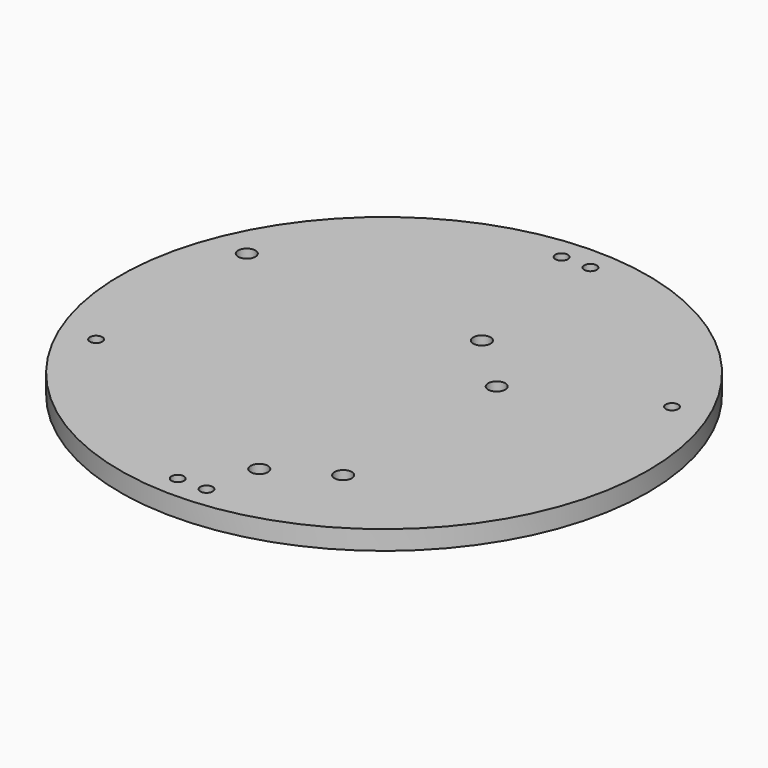
from build123d import *

# Parameters (mm, degrees)
SKETCH_R        = 55
PAD_DEPTH       = 4
SKETCH003_R     = 1.3
POCKET001_DEPTH = 5
SKETCH004_R     = 1.3
POCKET_DEPTH    = 5
SKETCH005_R     = 1.8
POCKET002_DEPTH = 5


with BuildPart() as part:
    # Sketch → Pad (new body)
    with BuildSketch(Plane.XY):
        Circle(SKETCH_R)
    extrude(amount=PAD_DEPTH)

    # Sketch003 → Pocket001 (cut)
    with BuildSketch(Plane.XY.offset(4)):
        with Locations((-44, -20)):
            Circle(SKETCH003_R)
        with Locations((44, 20)):
            Circle(SKETCH003_R)
    extrude(amount=-POCKET001_DEPTH, mode=Mode.SUBTRACT)

    # Sketch004 (on Face3 of Pocket001) → Pocket (cut)
    with BuildSketch(Plane.XY.offset(4)):
        with Locations((3, -50)):
            Circle(SKETCH004_R)
        with Locations((-3, -50)):
            Circle(SKETCH004_R)
        with Locations((-3, 50)):
            Circle(SKETCH004_R)
        with Locations((3, 50)):
            Circle(SKETCH004_R)
    extrude(amount=-POCKET_DEPTH, mode=Mode.SUBTRACT)

    # Sketch005 (on Face2 of Pocket) → Pocket002 (cut)
    with BuildSketch(Plane(origin=(0, 0, 0), x_dir=(1, 0, 0), z_dir=(0, 0, -1))):
        with Locations((17.262171, 32.243663)):
            Circle(SKETCH005_R)
        with Locations((17.262171, -7.756337)):
            Circle(SKETCH005_R)
        with Locations((5.258312, 39.084725)):
            Circle(SKETCH005_R)
        with Locations((-43.741688, -18.915275)):
            Circle(SKETCH005_R)
        with Locations((5.258312, -18.915275)):
            Circle(SKETCH005_R)
    extrude(amount=-POCKET002_DEPTH, mode=Mode.SUBTRACT)


solid = part.part
